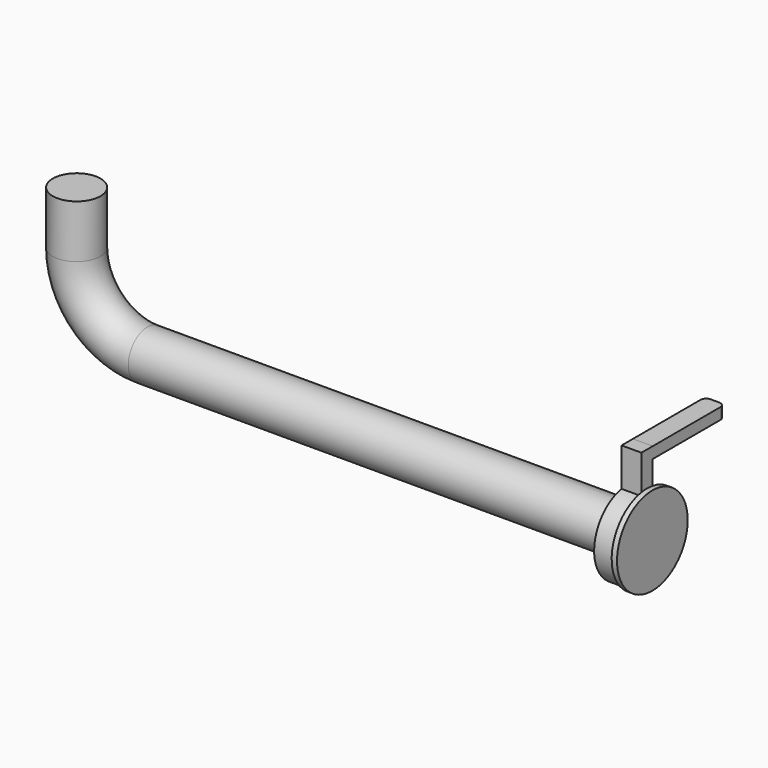
from build123d import *

# Parameters (mm, degrees)
F3_R      = 125
F4_DEPTH  = 15
F0_R      = 67.5
F6_R      = 117
F7_DEPTH  = 56
F8_W      = 40
F8_H      = 195.041159
F9_DEPTH  = 56
F11_DEPTH = 32


with BuildPart() as f4:
    # F3 (on offset) → F4 (new body)
    with BuildSketch(Plane.YZ.offset(1613)):
        with Locations((0, -350)):
            Circle(F3_R)
    extrude(amount=F4_DEPTH)

    # F5: sweep along a path in F1
    with BuildLine(Plane.XZ) as f5_path:
        Line((0, 0), (0, -150))
        ThreePointArc((0, -150), (58.578644, -291.421356), (200, -350))
        Line((200, -350), (1613, -350))
    # F0 (on Top) → F5 (sweep)
    with BuildSketch(Plane.XY):
        Circle(F0_R)
    sweep(path=f5_path.line)

    # F6 (on offset) → F7 (join)
    with BuildSketch(Plane.YZ.offset(1613)):
        with Locations((0, -351.443887)):
            Circle(F6_R)
    extrude(amount=-F7_DEPTH)

    # F8 (on offset) → F9 (join)
    with BuildSketch(Plane.YZ.offset(1613)):
        with Locations((0, -225.520579)):
            Rectangle(F8_W, F8_H)
    extrude(amount=-F9_DEPTH)

    # F10 (on face) → F11 (join)
    with BuildSketch(Plane.XY.offset(-128)):
        with BuildLine():
            Line((1557, 259.156863), (1557, 20))
            Line((1557, 20), (1613, 20))
            Line((1613, 20), (1613, 259.156863))
            ThreePointArc((1613, 259.156863), (1608.359653, 270.359653), (1597.156863, 275))
            Line((1597.156863, 275), (1572.843137, 275))
            ThreePointArc((1572.843137, 275), (1561.640347, 270.359653), (1557, 259.156863))
        make_face()
    extrude(amount=-F11_DEPTH)


solid = f4.part
